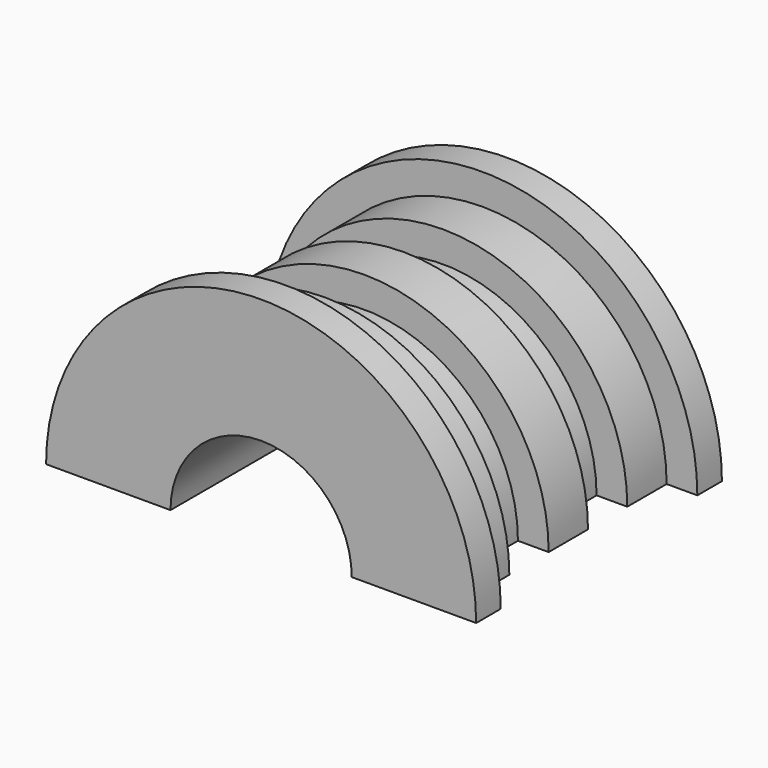
from build123d import *

# Parameters (mm, degrees)
F1_ANGLE = 180


with BuildPart() as f1:
    # F0 (on Top) → F1 (revolve)
    with BuildSketch(Plane.XY):
        Polygon((35, 25), (14.75, 25), (14.75, -25), (35, -25), (35, -20), (30, -20), (30, -12), (25, -12), (25, -4), (30, -4), (30, 4), (25, 4), (25, 12), (30, 12), (30, 20), (35, 20), align=None)
    revolve(axis=Axis((0, -16.740087, 0), (0, -1, 0)), revolution_arc=F1_ANGLE)


solid = f1.part
